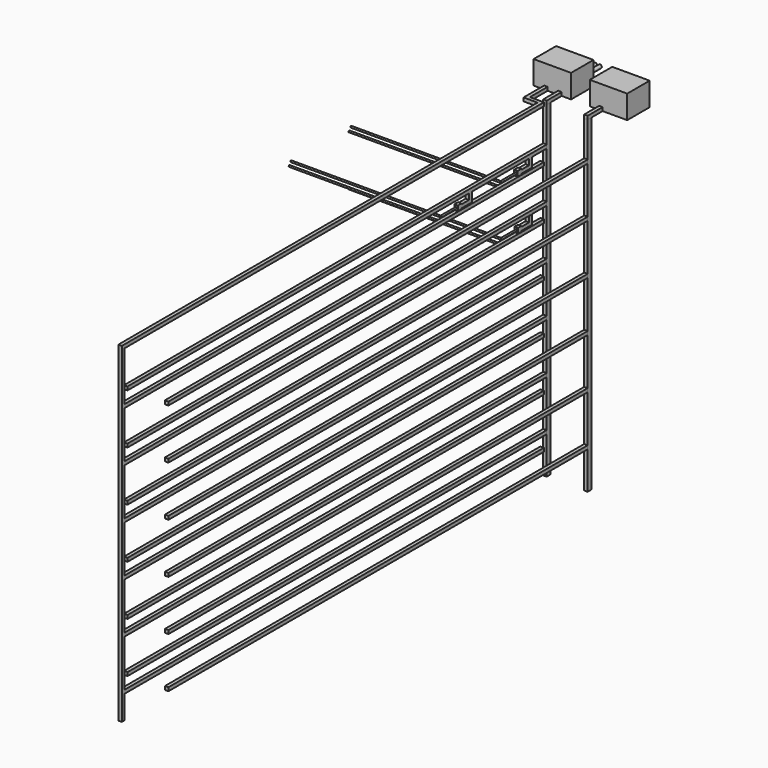
from build123d import *

# Parameters (mm, degrees)
F0_W      = 203.2
F0_H      = 152.4
F1_DEPTH  = 127
F2_DEPTH  = 127
F3_W      = 19.05
F3_H      = 19.05
F4_DEPTH  = 101.6
F5_W      = 19.05
F5_H      = 25.4
F6_DEPTH  = 1778
F7_W      = 19.05
F7_H      = 19.05
F8_DEPTH  = 2844.8
F9_W      = 19.05
F9_H      = 19.05
F10_DEPTH = 50.8
F11_W     = 19.05
F11_H     = 19.05
F12_DEPTH = 50.8
F13_W     = 19.05
F13_H     = 27.5166666667
F14_DEPTH = 25.4
F15_R     = 4.2333333333
F16_DEPTH = 107.95
F18_R     = 4.2333333333
F19_DEPTH = 812.8
F20_W     = 19.05
F20_H     = 19.05
F21_DEPTH = 50.8
F22_W     = 19.05
F22_H     = 19.05
F23_DEPTH = 50.8
F24_W     = 19.05
F24_H     = 27.5166666667
F25_DEPTH = 25.4
F26_R     = 4.2333333333
F27_DEPTH = 107.95
F28_R     = 4.2333333333
F29_DEPTH = 812.8
F31_DEPTH = 19.05
F32_R     = 4.2333333333
F33_DEPTH = 107.95
F34_R     = 4.2333333333
F35_DEPTH = 812.8
F36_W     = 19.05
F36_H     = 19.05
F37_DEPTH = 1778
F38_W     = 19.05
F38_H     = 19.05
F39_DEPTH = 2844.8
F40_W     = 19.05
F40_H     = 19.05
F41_DEPTH = 19.05
F42_W     = 19.05
F42_H     = 19.05
F43_DEPTH = 2844.8
F44_W     = 19.05
F44_H     = 19.05
F45_DEPTH = 76.2
F46_W     = 19.05
F46_H     = 19.05
F47_DEPTH = 120.8786
F48_R     = 4.2333333333
F49_DEPTH = 812.8
F50_R     = 9.525
F51_DEPTH = 76.2


with BuildPart() as f1:
    # F0 (on Top) → F1 (new body)
    with BuildSketch(Plane.XY):
        with Locations((3232.2173801422, 2717.8)):
            Rectangle(F0_W, F0_H)
    extrude(amount=F1_DEPTH)


with BuildPart() as f2:
    # F0 (on Top) → F2 (new body)
    with BuildSketch(Plane.XY):
        with Locations((3537.0173801422, 2717.8)):
            Rectangle(F0_W, F0_H)
    extrude(amount=F2_DEPTH)


with BuildPart() as f4:
    # F3 (on face) → F4 (new body)
    with BuildSketch(Plane.XZ.offset(-2641.6)):
        with Locations((3273.4923801422, 9.525)):
            Rectangle(F3_W, F3_H)
    extrude(amount=F4_DEPTH)


with BuildPart() as f4b:
    # F3 (on face) → F4, piece 2 (new body)
    with BuildSketch(Plane.XZ.offset(-2641.6)):
        with Locations((3495.7423801422, 9.525)):
            Rectangle(F3_W, F3_H)
    extrude(amount=F4_DEPTH)


with BuildPart() as f6:
    # F5 (on face) → F6 (new body)
    with BuildSketch(Plane(origin=(0, 0, 0), x_dir=(1, 0, 0), z_dir=(0, 0, -1))):
        with Locations((3273.4923801422, -2552.7)):
            Rectangle(F5_W, F5_H)
    extrude(amount=F6_DEPTH)


with BuildPart() as f6b:
    # F5 (on face) → F6, piece 2 (new body)
    with BuildSketch(Plane(origin=(0, 0, 0), x_dir=(1, 0, 0), z_dir=(0, 0, -1))):
        with Locations((3495.7423801422, -2552.7)):
            Rectangle(F5_W, F5_H)
    extrude(amount=F6_DEPTH)


with BuildPart() as f8:
    # F7 (on face) → F8 (new body)
    with BuildSketch(Plane.XZ.offset(-2540)):
        with Locations((3273.4923801422, -200.025)):
            Rectangle(F7_W, F7_H)
    extrude(amount=F8_DEPTH)

    # F9 (on face) → F10 (join)
    with BuildSketch(Plane(origin=(0, 0, -209.55), x_dir=(1, 0, 0), z_dir=(0, 0, -1))):
        with Locations((3273.4923801422, -2428.875)):
            Rectangle(F9_W, F9_H)
    extrude(amount=F10_DEPTH)

    # F11 (on face) → F12 (join)
    with BuildSketch(Plane.XZ.offset(-2419.35)):
        with Locations((3273.4923801422, -250.825)):
            Rectangle(F11_W, F11_H)
    extrude(amount=F12_DEPTH)

    # F13 (on face) → F14 (join)
    with BuildSketch(Plane.XZ.offset(-2368.55)):
        with Locations((3273.4923801422, -250.825)):
            Rectangle(F13_W, F13_H)
    extrude(amount=F14_DEPTH)

    # F15 (on face) → F16 (join)
    with BuildSketch(Plane.XZ.offset(-2343.15)):
        with Locations((3273.4923801422, -250.825)):
            Circle(F15_R)
    extrude(amount=F16_DEPTH)

    # F18 (on offset) → F19 (join)
    with BuildSketch(Plane(origin=(3273.4923801422, 0, 0), x_dir=(0, -1, 0), z_dir=(-1, 0, 0))):
        with Locations((-2239.4333333333, -250.7652044296)):
            Circle(F18_R)
    extrude(amount=F19_DEPTH)

    # F20 (on face) → F21 (join)
    with BuildSketch(Plane(origin=(0, 0, -209.55), x_dir=(1, 0, 0), z_dir=(0, 0, -1))):
        with Locations((3273.4923801422, -2022.475)):
            Rectangle(F20_W, F20_H)
    extrude(amount=F21_DEPTH)

    # F22 (on face) → F23 (join)
    with BuildSketch(Plane.XZ.offset(-2012.95)):
        with Locations((3273.4923801422, -250.825)):
            Rectangle(F22_W, F22_H)
    extrude(amount=F23_DEPTH)

    # F24 (on face) → F25 (join)
    with BuildSketch(Plane.XZ.offset(-1962.15)):
        with Locations((3273.4923801422, -250.825)):
            Rectangle(F24_W, F24_H)
    extrude(amount=F25_DEPTH)

    # F26 (on face) → F27 (join)
    with BuildSketch(Plane.XZ.offset(-1936.75)):
        with Locations((3273.4923801422, -250.8292333333)):
            Circle(F26_R)
    extrude(amount=F27_DEPTH)

    # F28 (on offset) → F29 (join)
    with BuildSketch(Plane(origin=(3273.4923801422, 0, 0), x_dir=(0, -1, 0), z_dir=(-1, 0, 0))):
        with Locations((-1833.0333333333, -250.8292333333)):
            Circle(F28_R)
    extrude(amount=F29_DEPTH)


with BuildPart() as f8b:
    # F7 (on face) → F8, piece 2 (new body)
    with BuildSketch(Plane.XZ.offset(-2540)):
        with Locations((3273.4923801422, -473.075)):
            Rectangle(F7_W, F7_H)
    extrude(amount=F8_DEPTH)


with BuildPart() as f8c:
    # F7 (on face) → F8, piece 3 (new body)
    with BuildSketch(Plane.XZ.offset(-2540)):
        with Locations((3273.4923801422, -746.125)):
            Rectangle(F7_W, F7_H)
    extrude(amount=F8_DEPTH)


with BuildPart() as f8d:
    # F7 (on face) → F8, piece 4 (new body)
    with BuildSketch(Plane.XZ.offset(-2540)):
        with Locations((3273.4923801422, -1019.175)):
            Rectangle(F7_W, F7_H)
    extrude(amount=F8_DEPTH)


with BuildPart() as f8e:
    # F7 (on face) → F8, piece 5 (new body)
    with BuildSketch(Plane.XZ.offset(-2540)):
        with Locations((3273.4923801422, -1292.225)):
            Rectangle(F7_W, F7_H)
    extrude(amount=F8_DEPTH)


with BuildPart() as f8f:
    # F7 (on face) → F8, piece 6 (new body)
    with BuildSketch(Plane.XZ.offset(-2540)):
        with Locations((3273.4923801422, -1565.275)):
            Rectangle(F7_W, F7_H)
    extrude(amount=F8_DEPTH)


with BuildPart() as f8g:
    # F7 (on face) → F8, piece 7 (new body)
    with BuildSketch(Plane.XZ.offset(-2540)):
        with Locations((3495.7423801422, -200.025)):
            Rectangle(F7_W, F7_H)
    extrude(amount=F8_DEPTH)


with BuildPart() as f8h:
    # F7 (on face) → F8, piece 8 (new body)
    with BuildSketch(Plane.XZ.offset(-2540)):
        with Locations((3495.7423801422, -473.075)):
            Rectangle(F7_W, F7_H)
    extrude(amount=F8_DEPTH)


with BuildPart() as f8i:
    # F7 (on face) → F8, piece 9 (new body)
    with BuildSketch(Plane.XZ.offset(-2540)):
        with Locations((3495.7423801422, -746.125)):
            Rectangle(F7_W, F7_H)
    extrude(amount=F8_DEPTH)


with BuildPart() as f8j:
    # F7 (on face) → F8, piece 10 (new body)
    with BuildSketch(Plane.XZ.offset(-2540)):
        with Locations((3495.7423801422, -1019.175)):
            Rectangle(F7_W, F7_H)
    extrude(amount=F8_DEPTH)


with BuildPart() as f8k:
    # F7 (on face) → F8, piece 11 (new body)
    with BuildSketch(Plane.XZ.offset(-2540)):
        with Locations((3495.7423801422, -1292.225)):
            Rectangle(F7_W, F7_H)
    extrude(amount=F8_DEPTH)


with BuildPart() as f8l:
    # F7 (on face) → F8, piece 12 (new body)
    with BuildSketch(Plane.XZ.offset(-2540)):
        with Locations((3495.7423801422, -1565.275)):
            Rectangle(F7_W, F7_H)
    extrude(amount=F8_DEPTH)


with BuildPart() as f31:
    # F30 (on face) → F31 (new body)
    with BuildSketch(Plane(origin=(3263.9673801422, 0, 0), x_dir=(0, -1, 0), z_dir=(-1, 0, 0))):
        Polygon((-2419.35, -483.3583533764), (-2438.4, -483.3583533764), (-2438.4, -533.4), (-2419.35, -533.4), (-2368.55, -533.4), (-2368.55, -537.6248666667), (-2346.2021350861, -537.6248666667), (-2346.2021350861, -510.1166666667), (-2368.55, -510.1166666667), (-2368.55, -514.35), (-2419.35, -514.35), align=None)
    extrude(amount=-F31_DEPTH)

    # F32 (on face) → F33 (join)
    with BuildSketch(Plane.XZ.offset(-2346.2021350861)):
        with Locations((3273.4923801422, -523.8707666667)):
            Circle(F32_R)
    extrude(amount=F33_DEPTH)

    # F34 (on offset) → F35 (join)
    with BuildSketch(Plane(origin=(3273.4923801422, 0, 0), x_dir=(0, -1, 0), z_dir=(-1, 0, 0))):
        with Locations((-2242.4854684194, -523.8707666667)):
            Circle(F34_R)
    extrude(amount=F35_DEPTH)


with BuildPart() as f37:
    # F36 (on face) → F37 (new body)
    with BuildSketch(Plane(origin=(0, 0, -1778), x_dir=(1, 0, 0), z_dir=(0, 0, -1))):
        with Locations((3273.4923801422, 333.6044539452)):
            Rectangle(F36_W, F36_H)
    extrude(amount=-F37_DEPTH)

    # F38 (on face) → F39 (join)
    with BuildSketch(Plane(origin=(0, -324.0794539452, 0), x_dir=(-1, 0, 0), z_dir=(0, 1, 0))):
        with Locations((-3273.4923801422, -1641.475)):
            Rectangle(F38_W, F38_H)
        with Locations((-3273.4923801422, -1368.425)):
            Rectangle(F38_W, F38_H)
        with Locations((-3273.4923801422, -1095.375)):
            Rectangle(F38_W, F38_H)
        with Locations((-3273.4923801422, -822.325)):
            Rectangle(F38_W, F38_H)
        with Locations((-3273.4923801422, -549.275)):
            Rectangle(F38_W, F38_H)
        with Locations((-3273.4923801422, -276.225)):
            Rectangle(F38_W, F38_H)
    extrude(amount=F39_DEPTH)

    # F40 (on face) → F41 (join)
    with BuildSketch(Plane.XY):
        with Locations((3273.4923801422, -333.6044539452)):
            Rectangle(F40_W, F40_H)
    extrude(amount=F41_DEPTH)

    # F42 (on face) → F43 (join)
    with BuildSketch(Plane(origin=(0, -324.0794539452, 0), x_dir=(-1, 0, 0), z_dir=(0, 1, 0))):
        with Locations((-3273.4923801422, 9.525)):
            Rectangle(F42_W, F42_H)
    extrude(amount=F43_DEPTH)

    # F44 (on face) → F45 (join)
    with BuildSketch(Plane(origin=(3263.9673801422, 0, 0), x_dir=(0, -1, 0), z_dir=(-1, 0, 0))):
        with Locations((-2511.1955460548, 9.525)):
            Rectangle(F44_W, F44_H)
    extrude(amount=F45_DEPTH)

    # F46 (on face) → F47 (join)
    with BuildSketch(Plane(origin=(0, 2520.7205460548, 0), x_dir=(-1, 0, 0), z_dir=(0, 1, 0))):
        with Locations((-3197.2923801422, 9.525)):
            Rectangle(F46_W, F46_H)
    extrude(amount=F47_DEPTH)

    # F48 (on face) → F49 (join)
    with BuildSketch(Plane(origin=(3263.9673801422, 0, 0), x_dir=(0, -1, 0), z_dir=(-1, 0, 0))):
        with Locations((-2239.4333333333, -276.225)):
            Circle(F48_R)
        with Locations((-2239.4333333333, -549.275)):
            Circle(F48_R)
        with Locations((-1833.0333333333, -276.225)):
            Circle(F48_R)
    extrude(amount=F49_DEPTH)


with BuildPart() as f51:
    # F50 (on face) → F51 (new body)
    with BuildSketch(Plane(origin=(0, 2794, 0), x_dir=(-1, 0, 0), z_dir=(0, 1, 0))):
        with Locations((-3486.2173801422, 57.1081675589)):
            Circle(F50_R)
    extrude(amount=F51_DEPTH)


with BuildPart() as f51b:
    # F50 (on face) → F51, piece 2 (new body)
    with BuildSketch(Plane(origin=(0, 2794, 0), x_dir=(-1, 0, 0), z_dir=(0, 1, 0))):
        with Locations((-3460.8173801422, 57.1081675589)):
            Circle(F50_R)
    extrude(amount=F51_DEPTH)


with BuildPart() as f51c:
    # F50 (on face) → F51, piece 3 (new body)
    with BuildSketch(Plane(origin=(0, 2794, 0), x_dir=(-1, 0, 0), z_dir=(0, 1, 0))):
        with Locations((-3308.4173801422, 57.1081675589)):
            Circle(F50_R)
    extrude(amount=F51_DEPTH)


with BuildPart() as f51d:
    # F50 (on face) → F51, piece 4 (new body)
    with BuildSketch(Plane(origin=(0, 2794, 0), x_dir=(-1, 0, 0), z_dir=(0, 1, 0))):
        with Locations((-3283.0173801422, 57.1081675589)):
            Circle(F50_R)
    extrude(amount=F51_DEPTH)


solid = Compound([f1.part, f2.part, f4.part, f4b.part, f6.part, f6b.part, f8.part, f8b.part, f8c.part, f8d.part, f8e.part, f8f.part, f8g.part, f8h.part, f8i.part, f8j.part, f8k.part, f8l.part, f31.part, f37.part, f51.part, f51b.part, f51c.part, f51d.part])
